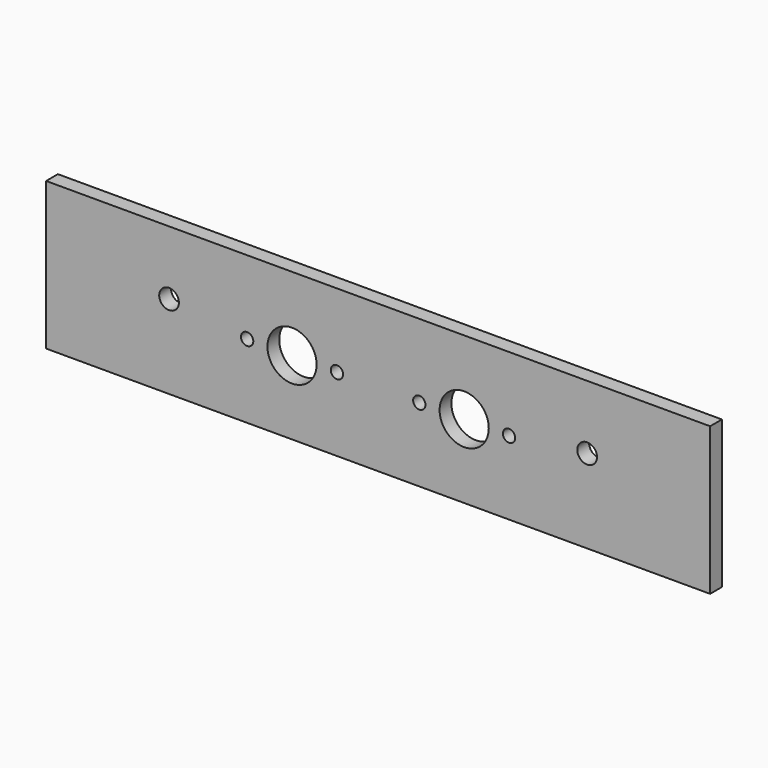
from build123d import *

# Parameters (mm, degrees)
SKETCH_W   = 270
SKETCH_H   = 60
SKETCH_R   = 10
SKETCH_R_2 = 2.5
SKETCH_R_3 = 4
PAD_DEPTH  = 6


with BuildPart() as part:
    # Sketch → Pad (new body)
    with BuildSketch(Plane.XZ):
        with Locations((135, 30)):
            Rectangle(SKETCH_W, SKETCH_H)
        with Locations((100, 30)):
            Circle(SKETCH_R, mode=Mode.SUBTRACT)
        with Locations((170, 30)):
            Circle(SKETCH_R, mode=Mode.SUBTRACT)
        with Locations((81.75, 30)):
            Circle(SKETCH_R_2, mode=Mode.SUBTRACT)
        with Locations((118.25, 30)):
            Circle(SKETCH_R_2, mode=Mode.SUBTRACT)
        with Locations((151.75, 30)):
            Circle(SKETCH_R_2, mode=Mode.SUBTRACT)
        with Locations((188.25, 30)):
            Circle(SKETCH_R_2, mode=Mode.SUBTRACT)
        with Locations((50, 34)):
            Circle(SKETCH_R_3, mode=Mode.SUBTRACT)
        with Locations((220, 34)):
            Circle(SKETCH_R_3, mode=Mode.SUBTRACT)
    extrude(amount=PAD_DEPTH)


solid = part.part
